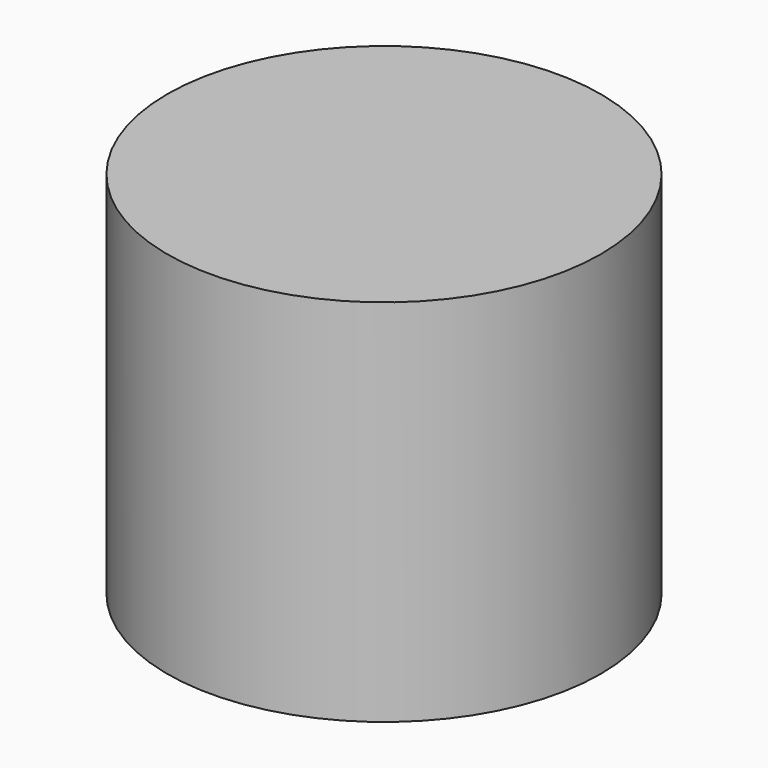
from build123d import *

# Parameters (mm, degrees)
CYLINDER_R     = 8.8011
CYLINDER_DEPTH = 15


with BuildPart() as part:
    # Cylinder → Cylinder (new body)
    with BuildSketch(Plane.XY.offset(-2.5)):
        Circle(CYLINDER_R)
    extrude(amount=CYLINDER_DEPTH)


solid = part.part
